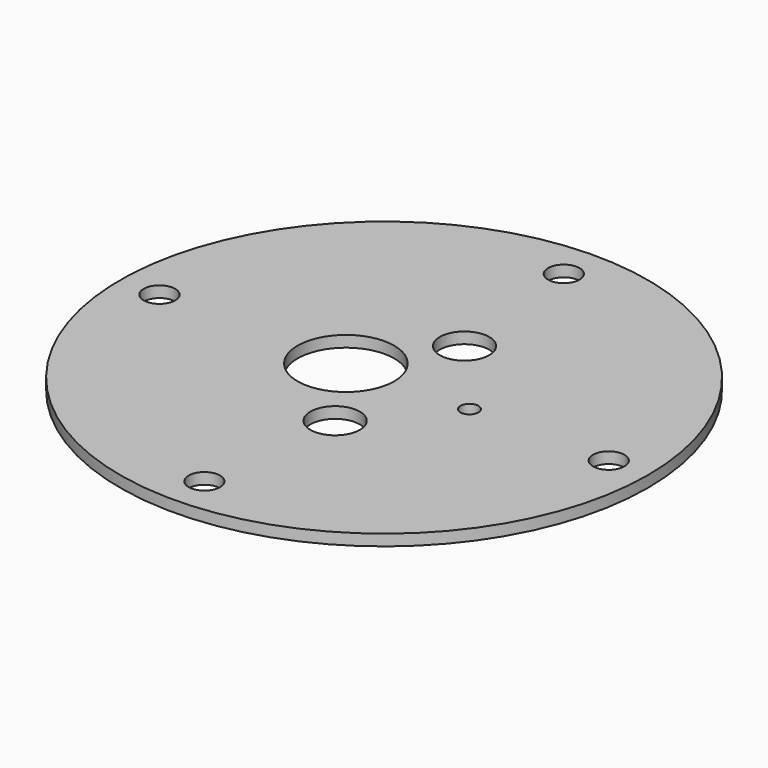
from build123d import *

# Parameters (mm, degrees)
F0_R     = 117.5
F0_R_2   = 11
F0_R_3   = 21.5
F1_DEPTH = 5
F2_R     = 7
F3_DEPTH = 5.001
F4_R     = 4
F5_DEPTH = 5.001


with BuildPart() as f1:
    # F0 (on Top) → F1 (new body)
    with BuildSketch(Plane.XY):
        Circle(F0_R)
        with Locations((7, -36)):
            Circle(F0_R_2, mode=Mode.SUBTRACT)
        with Locations((-17, 0)):
            Circle(F0_R_3, mode=Mode.SUBTRACT)
        with Locations((7, 36)):
            Circle(F0_R_2, mode=Mode.SUBTRACT)
    extrude(amount=F1_DEPTH)

    # F2 (on face) → F3 (cut, through all)
    with BuildSketch(Plane(origin=(0, 0, 0), x_dir=(1, 0, 0), z_dir=(0, 0, -1))):
        with Locations((-100, 0)):
            Circle(F2_R)
        with Locations((0, 100)):
            Circle(F2_R)
        with Locations((100, 0)):
            Circle(F2_R)
        with Locations((0, -100)):
            Circle(F2_R)
    extrude(amount=-F3_DEPTH, mode=Mode.SUBTRACT)

    # F4 (on face) → F5 (cut, through all)
    with BuildSketch(Plane.XY.offset(5)):
        with Locations((38, 0)):
            Circle(F4_R)
    extrude(amount=-F5_DEPTH, mode=Mode.SUBTRACT)


solid = f1.part
